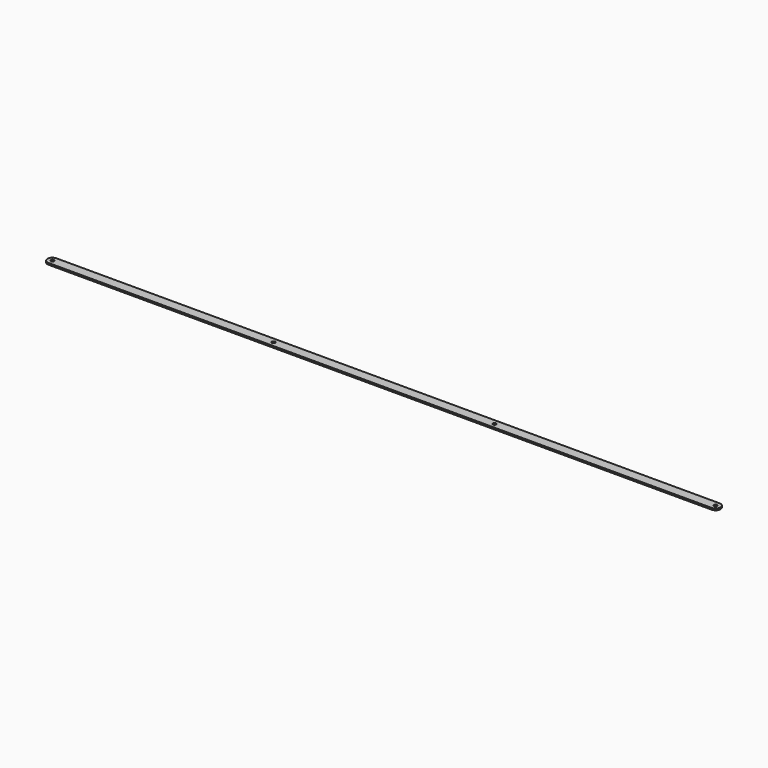
from build123d import *

# Parameters (mm, degrees)
F1_R     = 25
F2_DEPTH = 25


with BuildPart() as f2:
    # F1 (on Top) → F2 (new body)
    with BuildSketch(Plane.XY):
        with BuildLine():
            ThreePointArc((0, 75), (-75, 0), (0, -75))
            Line((0, -75), (10000, -75))
            ThreePointArc((10000, -75), (10075, 0), (10000, 75))
            Line((10000, 75), (0, 75))
        make_face()
        Circle(F1_R, mode=Mode.SUBTRACT)
        with Locations((3333.333333, 0)):
            Circle(F1_R, mode=Mode.SUBTRACT)
        with Locations((6666.666667, 0)):
            Circle(F1_R, mode=Mode.SUBTRACT)
        with Locations((10000, 0)):
            Circle(F1_R, mode=Mode.SUBTRACT)
    extrude(amount=F2_DEPTH)


solid = f2.part
